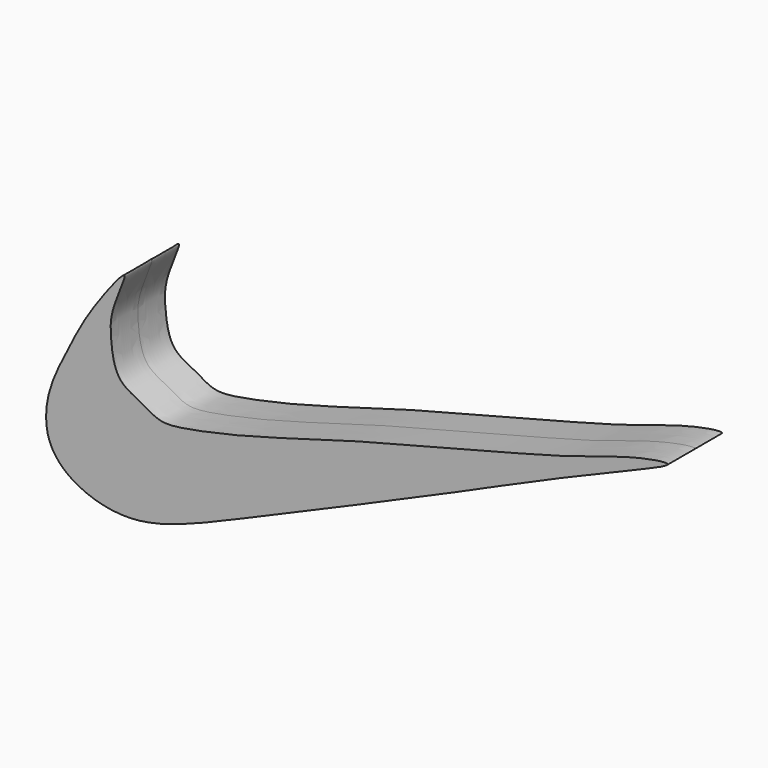
from build123d import *

# Parameters (mm, degrees)
F1_DEPTH = 6.35
F2_DEPTH = 12.7


with BuildPart() as f1:
    # F0 (on Front) → F1 (new body)
    with BuildSketch(Plane.XZ):
        with BuildLine():
            add(Edge.make_bspline(
                [(-66.3000792265, 17.2712113708), (-66.7234332562, 17.5344070987), (-73.6202270523, 8.4748321112), (-76.7069107424, 1.7810225236), (-80.9373358604, -6.0928174548), (-81.3964778776, -14.9568782291), (-75.4373486609, -20.8470289235), (-64.9518876284, -23.3976774197), (-53.3168765206, -19.5994862443), (-40.5359013258, -13.9558602654), (-24.2301399548, -7.0434873457), (-12.3877765634, -1.7503980052), (-4.0956001516, 1.769808349), (7.9401551469, 7.260275245), (19.5886908943, 12.2837405501), (29.51710916, 16.3924985526), (37.834078038, 19.9447374422), (28.543712767, 18.4907574736), (18.3244710391, 14.7178030335), (2.6265959968, 10.7210578894), (-10.4726952142, 7.23940822), (-23.27888596, 4.1225659795), (-42.9630993272, -1.895558981), (-54.2207806664, -4.2346006826), (-59.783888386, -4.9580632341), (-63.1876104988, -2.4437423252), (-68.0148220624, -0.6373858456), (-68.9253945068, 6.264384409), (-69.0084401142, 10.8491539475), (-65.9716445728, 17.0670262405), (-66.3000792265, 17.2712113708)],
                knots=[0, 0, 0, 0, 0.0360259008, 0.0704981932, 0.1037602298, 0.1363467231, 0.1676505418, 0.2040799046, 0.2433898431, 0.2864256083, 0.3347681013, 0.3755621538, 0.4095901457, 0.4507558675, 0.4918084474, 0.5312036394, 0.557108007, 0.5835401572, 0.6234398127, 0.6693267984, 0.7110556763, 0.7527845589, 0.8048528538, 0.8437415697, 0.869173304, 0.8918929302, 0.9166319709, 0.9448128617, 0.9720513957, 1, 1, 1, 1], degree=3))
        make_face()
    extrude(amount=F1_DEPTH)

    # F0 (on Front) → F2 (join)
    with BuildSketch(Plane.XZ):
        with BuildLine():
            add(Edge.make_bspline(
                [(-66.3000792265, 17.2712113708), (-66.7234332562, 17.5344070987), (-73.6202270523, 8.4748321112), (-76.7069107424, 1.7810225236), (-80.9373358604, -6.0928174548), (-81.3964778776, -14.9568782291), (-75.4373486609, -20.8470289235), (-64.9518876284, -23.3976774197), (-53.3168765206, -19.5994862443), (-40.5359013258, -13.9558602654), (-24.2301399548, -7.0434873457), (-12.3877765634, -1.7503980052), (-4.0956001516, 1.769808349), (7.9401551469, 7.260275245), (19.5886908943, 12.2837405501), (29.51710916, 16.3924985526), (37.834078038, 19.9447374422), (28.543712767, 18.4907574736), (18.3244710391, 14.7178030335), (2.6265959968, 10.7210578894), (-10.4726952142, 7.23940822), (-23.27888596, 4.1225659795), (-42.9630993272, -1.895558981), (-54.2207806664, -4.2346006826), (-59.783888386, -4.9580632341), (-63.1876104988, -2.4437423252), (-68.0148220624, -0.6373858456), (-68.9253945068, 6.264384409), (-69.0084401142, 10.8491539475), (-65.9716445728, 17.0670262405), (-66.3000792265, 17.2712113708)],
                knots=[0, 0, 0, 0, 0.0360259008, 0.0704981932, 0.1037602298, 0.1363467231, 0.1676505418, 0.2040799046, 0.2433898431, 0.2864256083, 0.3347681013, 0.3755621538, 0.4095901457, 0.4507558675, 0.4918084474, 0.5312036394, 0.557108007, 0.5835401572, 0.6234398127, 0.6693267984, 0.7110556763, 0.7527845589, 0.8048528538, 0.8437415697, 0.869173304, 0.8918929302, 0.9166319709, 0.9448128617, 0.9720513957, 1, 1, 1, 1], degree=3))
        make_face()
    extrude(amount=F2_DEPTH)


solid = f1.part
